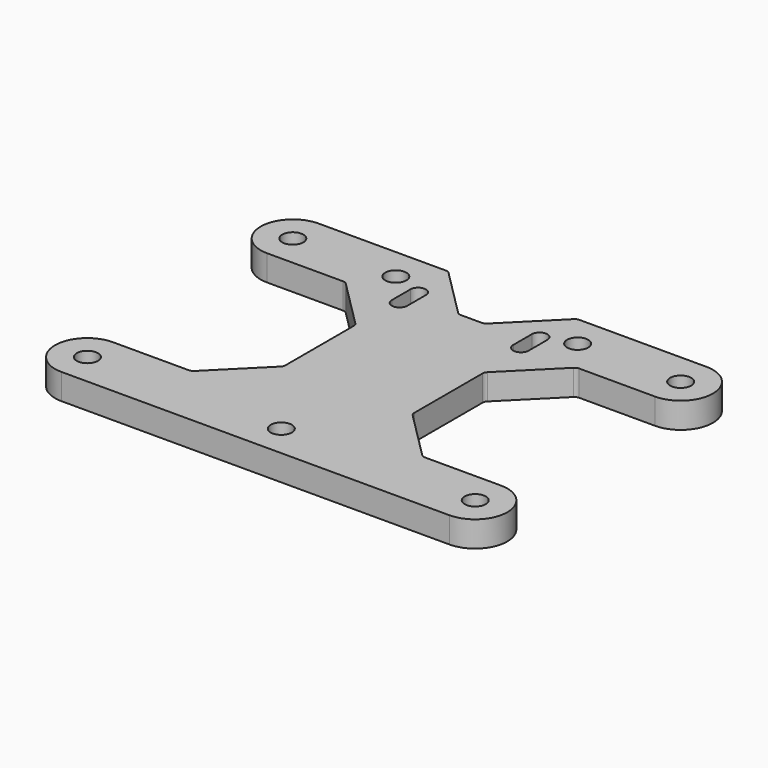
from build123d import *

# Parameters (mm, degrees)
F0_R     = 4.1
F1_DEPTH = 10
F0_R_2   = 3.6
F0_R_3   = 2.5
F2_DEPTH = 3


with BuildPart() as f1:
    # F0 (on Top) → F1 (new body)
    with BuildSketch(Plane.XY):
        with BuildLine():
            ThreePointArc((-75.3, -37.4), (-87.8, -49.9), (-75.3, -62.4))
            Line((-75.3, -62.4), (75.3, -62.4))
            ThreePointArc((75.3, -62.4), (87.8, -49.9), (75.3, -37.4))
            Line((75.3, -37.4), (45.873402, -37.4))
            ThreePointArc((45.873402, -37.4), (44.974096, -37.221117), (44.211701, -36.711701))
            Line((44.211701, -36.711701), (25.688299, -18.188299))
            ThreePointArc((25.688299, -18.188299), (25.178883, -17.425904), (25, -16.526598))
            Line((25, -16.526598), (25, 16.526598))
            ThreePointArc((25, 16.526598), (25.178883, 17.425904), (25.688299, 18.188299))
            Line((25.688299, 18.188299), (44.211701, 36.711701))
            ThreePointArc((44.211701, 36.711701), (44.974096, 37.221117), (45.873402, 37.4))
            Line((45.873402, 37.4), (75.3, 37.4))
            ThreePointArc((75.3, 37.4), (87.8, 49.9), (75.3, 62.4))
            Line((75.3, 62.4), (25.973402, 62.4))
            ThreePointArc((25.973402, 62.4), (25.074096, 62.221117), (24.311701, 61.711701))
            Line((24.311701, 61.711701), (5.688299, 43.088299))
            ThreePointArc((5.688299, 43.088299), (4.925904, 42.578883), (4.026598, 42.4))
            Line((4.026598, 42.4), (-4.026598, 42.4))
            ThreePointArc((-4.026598, 42.4), (-4.925904, 42.578883), (-5.688299, 43.088299))
            Line((-5.688299, 43.088299), (-24.311701, 61.711701))
            ThreePointArc((-24.311701, 61.711701), (-25.074096, 62.221117), (-25.973402, 62.4))
            Line((-25.973402, 62.4), (-75.3, 62.4))
            ThreePointArc((-75.3, 62.4), (-87.8, 49.9), (-75.3, 37.4))
            Line((-75.3, 37.4), (-45.873402, 37.4))
            ThreePointArc((-45.873402, 37.4), (-44.974096, 37.221117), (-44.211701, 36.711701))
            Line((-44.211701, 36.711701), (-25.688299, 18.188299))
            ThreePointArc((-25.688299, 18.188299), (-25.178883, 17.425904), (-25, 16.526598))
            Line((-25, 16.526598), (-25, -16.526598))
            ThreePointArc((-25, -16.526598), (-25.178883, -17.425904), (-25.688299, -18.188299))
            Line((-25.688299, -18.188299), (-44.211701, -36.711701))
            ThreePointArc((-44.211701, -36.711701), (-44.974096, -37.221117), (-45.873402, -37.4))
            Line((-45.873402, -37.4), (-75.3, -37.4))
        make_face()
        with Locations((-75.3, -49.85)):
            Circle(F0_R, mode=Mode.SUBTRACT)
        with Locations((0, -49.85)):
            Circle(F0_R, mode=Mode.SUBTRACT)
        with Locations((75.3, -49.85)):
            Circle(F0_R, mode=Mode.SUBTRACT)
        with Locations((-75.3, 49.85)):
            Circle(F0_R, mode=Mode.SUBTRACT)
        with BuildLine():
            Line((-26.57, 37.03), (-26.57, 46.03))
            ThreePointArc((-26.57, 46.03), (-23.57, 49.03), (-20.57, 46.03))
            Line((-20.57, 46.03), (-20.57, 37.03))
            ThreePointArc((-20.57, 37.03), (-23.57, 34.03), (-26.57, 37.03))
        make_face(mode=Mode.SUBTRACT)
        with Locations((-35.3, 49.85)):
            Circle(F0_R, mode=Mode.SUBTRACT)
        with BuildLine():
            Line((20.57, 37.03), (20.57, 46.03))
            ThreePointArc((20.57, 46.03), (23.57, 49.03), (26.57, 46.03))
            Line((26.57, 46.03), (26.57, 37.03))
            ThreePointArc((26.57, 37.03), (23.57, 34.03), (20.57, 37.03))
        make_face(mode=Mode.SUBTRACT)
        with Locations((35.3, 49.85)):
            Circle(F0_R, mode=Mode.SUBTRACT)
        with Locations((75.3, 49.85)):
            Circle(F0_R, mode=Mode.SUBTRACT)
    extrude(amount=F1_DEPTH)

    # F0 (on Top) → F2 (join)
    with BuildSketch(Plane.XY):
        with Locations((-75.3, -49.85)):
            Circle(F0_R)
        with Locations((-75.3, -49.85)):
            Circle(F0_R_2, mode=Mode.SUBTRACT)
        with Locations((0, -49.85)):
            Circle(F0_R)
        with Locations((0, -49.85)):
            Circle(F0_R_2, mode=Mode.SUBTRACT)
        with Locations((75.3, -49.85)):
            Circle(F0_R)
        with Locations((75.3, -49.85)):
            Circle(F0_R_2, mode=Mode.SUBTRACT)
        with Locations((75.3, 49.85)):
            Circle(F0_R)
        with Locations((75.3, 49.85)):
            Circle(F0_R_3, mode=Mode.SUBTRACT)
        with Locations((35.3, 49.85)):
            Circle(F0_R)
        with Locations((35.3, 49.85)):
            Circle(F0_R_3, mode=Mode.SUBTRACT)
        with Locations((-35.3, 49.85)):
            Circle(F0_R)
        with Locations((-35.3, 49.85)):
            Circle(F0_R_3, mode=Mode.SUBTRACT)
        with Locations((-75.3, 49.85)):
            Circle(F0_R)
        with Locations((-75.3, 49.85)):
            Circle(F0_R_3, mode=Mode.SUBTRACT)
    extrude(amount=F2_DEPTH)


solid = f1.part
